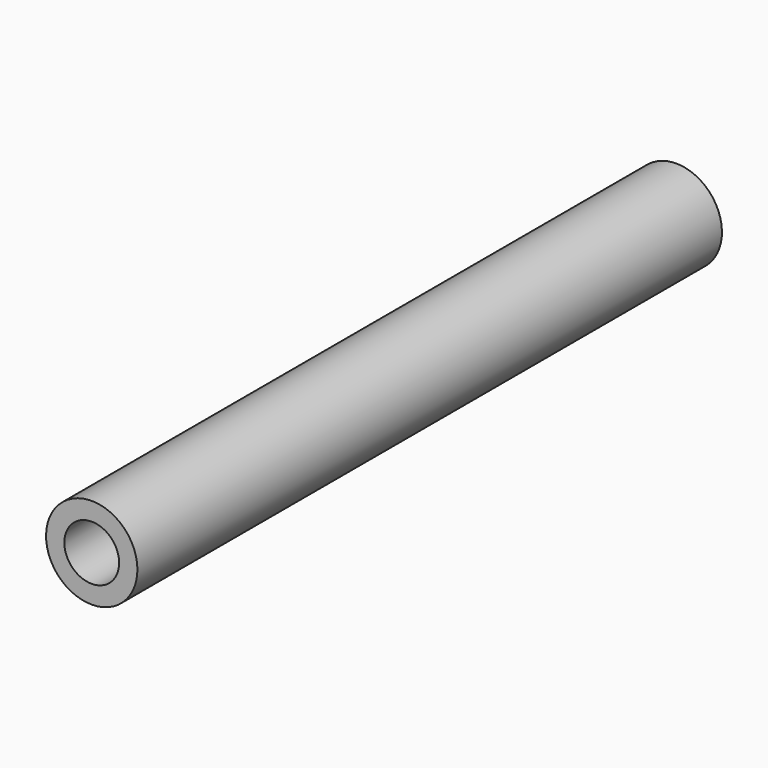
from build123d import *

# Parameters (mm, degrees)
CYLINDER007_R           = 1.5
CYLINDER007_DEPTH       = 44
CYLINDER007_PITCH_ANGLE = 90
CYLINDER006_R           = 2.5
CYLINDER006_DEPTH       = 40
CYLINDER006_PITCH_ANGLE = 90
CUT007_PLACEMENT_ANGLE  = 90


with BuildPart() as cilindro007:
    # Cylinder007 → Cylinder007 (new body)
    with BuildSketch(Plane.XY):
        Circle(CYLINDER007_R)
    extrude(amount=CYLINDER007_DEPTH)


with BuildPart() as cilindro007_1:
    # Cylinder007 pitch: moved
    add(cilindro007.part.rotate(Axis((0, 0, 0), (0, 1, 0)), CYLINDER007_PITCH_ANGLE))


with BuildPart() as cilindro007_2:
    # Cylinder007 placement: moved
    add(cilindro007_1.part.moved(Location((-2, 0, 0))))


with BuildPart() as soporte008:
    # Cylinder006 → Cylinder006 (new body)
    with BuildSketch(Plane.XY):
        Circle(CYLINDER006_R)
    extrude(amount=CYLINDER006_DEPTH)


with BuildPart() as soporte008_1:
    # Cylinder006 pitch: moved
    add(soporte008.part.rotate(Axis((0, 0, 0), (0, 1, 0)), CYLINDER006_PITCH_ANGLE))


with BuildPart() as soporte008_2:
    # Cylinder006 placement: moved
    add(soporte008_1.part)

    # Cut007: cut Cilindro007
    add(cilindro007_2.part, mode=Mode.SUBTRACT)


with BuildPart() as soporte008_3:
    # Cut007 placement: moved
    add(soporte008_2.part.moved(Location((-96.5, 125, 92.5))).rotate(Axis((-96.5, 125, 92.5), (0, 0, 1)), CUT007_PLACEMENT_ANGLE))


solid = soporte008_3.part
